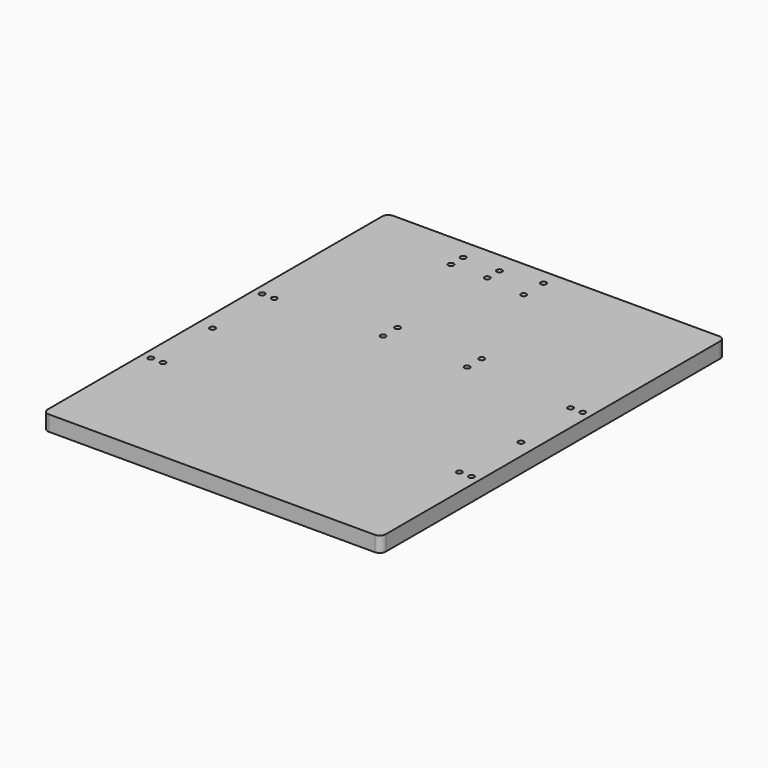
from build123d import *

# Parameters (mm, degrees)
F0_W     = 279.4
F0_H     = 355.6
F0_R     = 2.25
F1_DEPTH = 12.7
F2_R     = 5


with BuildPart() as f1:
    # F0 (on Top) → F1 (new body)
    with BuildSketch(Plane.XY):
        Rectangle(F0_W, F0_H)
        with Locations((-132.5, -75.3)):
            Circle(F0_R, mode=Mode.SUBTRACT)
        with Locations((-122.5, -75.3)):
            Circle(F0_R, mode=Mode.SUBTRACT)
        with Locations((-127.5, -17.8)):
            Circle(F0_R, mode=Mode.SUBTRACT)
        with Locations((122.5, -75.3)):
            Circle(F0_R, mode=Mode.SUBTRACT)
        with Locations((132.5, -75.3)):
            Circle(F0_R, mode=Mode.SUBTRACT)
        with Locations((127.5, -17.8)):
            Circle(F0_R, mode=Mode.SUBTRACT)
        with Locations((-132.5, 39.7)):
            Circle(F0_R, mode=Mode.SUBTRACT)
        with Locations((-122.5, 39.7)):
            Circle(F0_R, mode=Mode.SUBTRACT)
        with Locations((-34.75, 42.5)):
            Circle(F0_R, mode=Mode.SUBTRACT)
        with Locations((-34.75, 57.5)):
            Circle(F0_R, mode=Mode.SUBTRACT)
        with Locations((-63, 148.05)):
            Circle(F0_R, mode=Mode.SUBTRACT)
        with Locations((-63, 160.55)):
            Circle(F0_R, mode=Mode.SUBTRACT)
        with Locations((-33, 148.05)):
            Circle(F0_R, mode=Mode.SUBTRACT)
        with Locations((-33, 160.55)):
            Circle(F0_R, mode=Mode.SUBTRACT)
        with Locations((34.75, 42.5)):
            Circle(F0_R, mode=Mode.SUBTRACT)
        with Locations((34.75, 57.5)):
            Circle(F0_R, mode=Mode.SUBTRACT)
        with Locations((122.5, 39.7)):
            Circle(F0_R, mode=Mode.SUBTRACT)
        with Locations((132.5, 39.7)):
            Circle(F0_R, mode=Mode.SUBTRACT)
        with Locations((0, 144.3)):
            Circle(F0_R, mode=Mode.SUBTRACT)
        with Locations((0, 164.8)):
            Circle(F0_R, mode=Mode.SUBTRACT)
    extrude(amount=F1_DEPTH)

    # F2
    f2_edges = [f1.edges().sort_by_distance(p)[0] for p in [
        (-139.7, -177.8, 6.35),
        (139.7, -177.8, 6.35),
        (139.7, 177.8, 6.35),
        (-139.7, 177.8, 6.35),
    ]]
    fillet(f2_edges, radius=F2_R)


solid = f1.part
